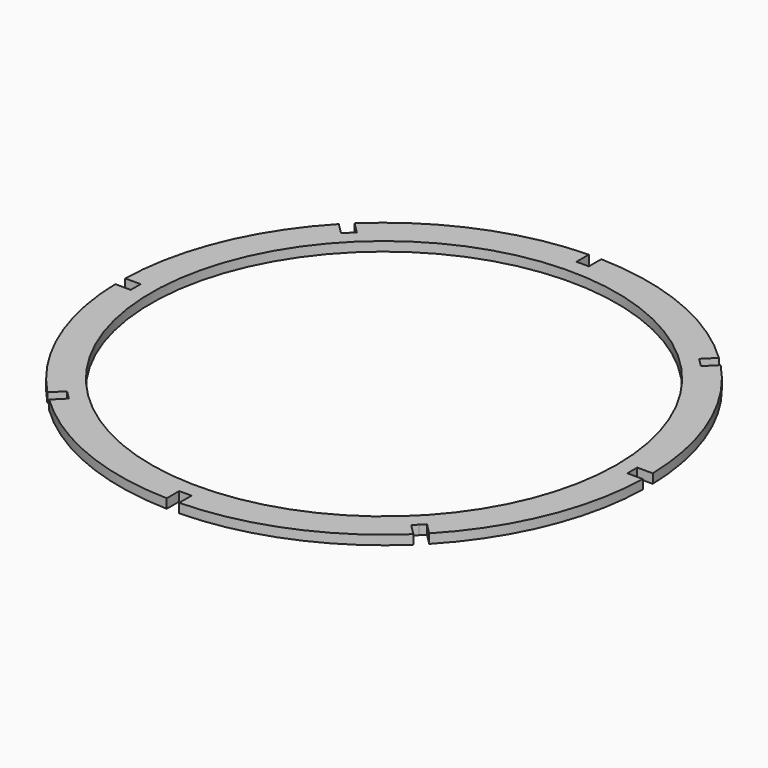
from build123d import *

# Parameters (mm, degrees)
F0_R     = 75
F1_DEPTH = 3


with BuildPart() as f1:
    # F0 (on Top) → F1 (new body)
    with BuildSketch(Plane.XY):
        with BuildLine():
            Line((79.976467, 2), (84.976467, 2))
            ThreePointArc((84.976467, 2), (78.52976, 32.528092), (61.50165, 58.673223))
            Line((61.50165, 58.673223), (57.966116, 55.137689))
            Line((57.966116, 55.137689), (56.551902, 56.551902))
            Line((56.551902, 56.551902), (55.137689, 57.966116))
            Line((55.137689, 57.966116), (58.673223, 61.50165))
            ThreePointArc((58.673223, 61.50165), (32.528092, 78.52976), (2, 84.976467))
            Line((2, 84.976467), (2, 79.976467))
            Line((2, 79.976467), (0, 79.976467))
            Line((0, 79.976467), (-2, 79.976467))
            Line((-2, 79.976467), (-2, 84.976467))
            ThreePointArc((-2, 84.976467), (-32.528092, 78.52976), (-58.673223, 61.50165))
            Line((-58.673223, 61.50165), (-55.137689, 57.966116))
            Line((-55.137689, 57.966116), (-56.551902, 56.551902))
            Line((-56.551902, 56.551902), (-57.966116, 55.137689))
            Line((-57.966116, 55.137689), (-61.50165, 58.673223))
            ThreePointArc((-61.50165, 58.673223), (-78.52976, 32.528092), (-84.976467, 2))
            Line((-84.976467, 2), (-79.976467, 2))
            Line((-79.976467, 2), (-79.976467, 0))
            Line((-79.976467, 0), (-79.976467, -2))
            Line((-79.976467, -2), (-84.976467, -2))
            ThreePointArc((-84.976467, -2), (-78.52976, -32.528092), (-61.50165, -58.673223))
            Line((-61.50165, -58.673223), (-57.966116, -55.137689))
            Line((-57.966116, -55.137689), (-56.551902, -56.551902))
            Line((-56.551902, -56.551902), (-55.137689, -57.966116))
            Line((-55.137689, -57.966116), (-58.673223, -61.50165))
            ThreePointArc((-58.673223, -61.50165), (-32.528092, -78.52976), (-2, -84.976467))
            Line((-2, -84.976467), (-2, -79.976467))
            Line((-2, -79.976467), (0, -79.976467))
            Line((0, -79.976467), (2, -79.976467))
            Line((2, -79.976467), (2, -84.976467))
            ThreePointArc((2, -84.976467), (32.528092, -78.52976), (58.673223, -61.50165))
            Line((58.673223, -61.50165), (55.137689, -57.966116))
            Line((55.137689, -57.966116), (56.551902, -56.551902))
            Line((56.551902, -56.551902), (57.966116, -55.137689))
            Line((57.966116, -55.137689), (61.50165, -58.673223))
            ThreePointArc((61.50165, -58.673223), (78.52976, -32.528092), (84.976467, -2))
            Line((84.976467, -2), (79.976467, -2))
            Line((79.976467, -2), (79.976467, 0))
            Line((79.976467, 0), (79.976467, 2))
        make_face()
        Circle(F0_R, mode=Mode.SUBTRACT)
    extrude(amount=F1_DEPTH)


solid = f1.part
